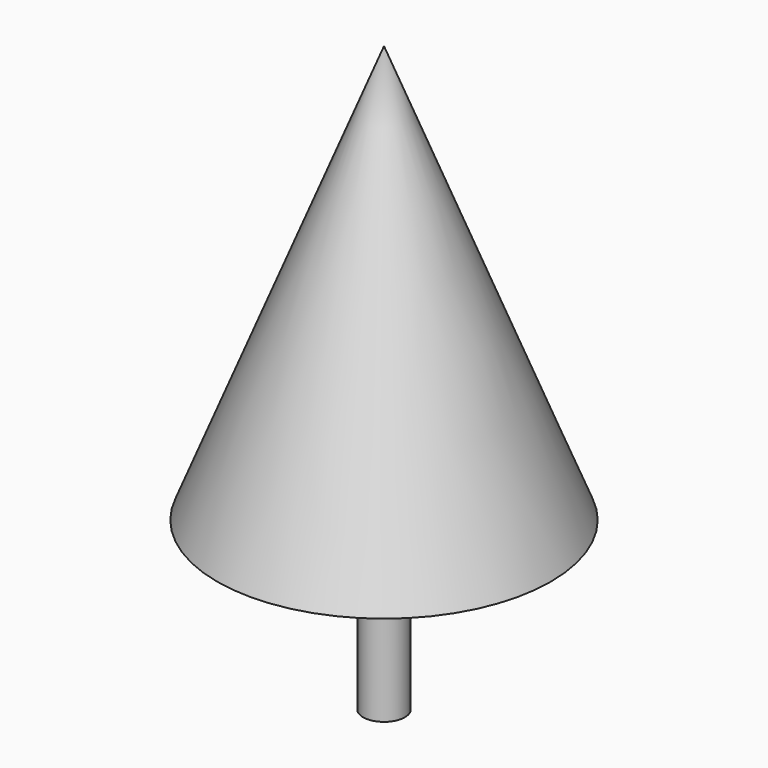
from build123d import *

# Parameters (mm, degrees)
F0_R     = 609.6
F3_R     = 76.2
F4_DEPTH = 609.6


with BuildPart() as f2:
    # F0 (on Top) → F2 section 0
    with BuildSketch(Plane.XY, mode=Mode.PRIVATE) as f2_s0:
        Circle(F0_R)
    loft([f2_s0.sketch, Vertex(0, 0, 1524)])

    # F3 (on face) → F4 (join)
    with BuildSketch(Plane(origin=(0, 0, 0), x_dir=(1, 0, 0), z_dir=(0, 0, -1))):
        Circle(F3_R)
    extrude(amount=F4_DEPTH)


solid = f2.part
